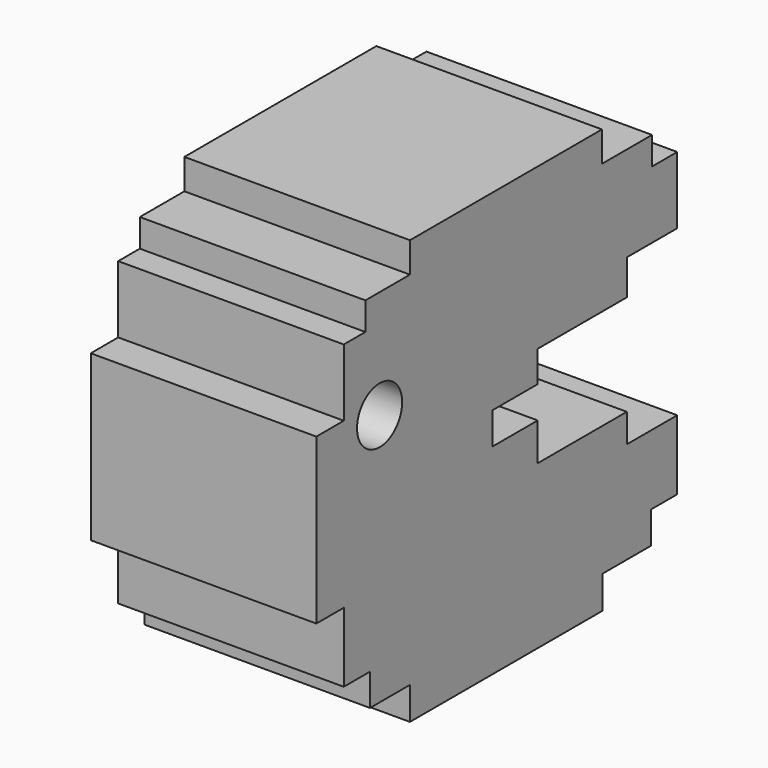
from build123d import *

# Parameters (mm, degrees)
F0_W     = 25.4
F0_H     = 25.399998
F1_DEPTH = 12.7
F3_DEPTH = 25.4
F4_R     = 1.5875
F5_DEPTH = 12.7


with BuildPart() as f1:
    # F0 (on Right) → F1 (new body)
    with BuildSketch(Plane.YZ):
        with Locations((12.7, 12.699999)):
            Rectangle(F0_W, F0_H)
    extrude(amount=F1_DEPTH)

    # F2 (on face) → F3 (cut)
    with BuildSketch(Plane.YZ.offset(12.7)):
        Polygon((0, 25.399998), (0, 16.820697), (1.931377, 16.820697), (1.931377, 20.601515), (3.452925, 20.601515), (3.452925, 22.169169), (6.588236, 22.169169), (6.588236, 23.875147), (20.09774, 23.875147), (20.09774, 22.169169), (23.624913, 22.169169), (23.624913, 20.601515), (25.4, 20.601515), (25.4, 25.399998), align=None)
        Polygon((0, 0), (6.588236, 0), (6.588236, 1.835753), (3.775678, 1.835753), (3.775678, 3.633947), (1.931377, 3.633947), (1.931377, 7.553086), (0, 7.553086), align=None)
        Polygon((20.143846, 1.835753), (20.143846, 0), (25.4, 0), (25.4, 3.633947), (23.555804, 3.633947), (23.555804, 1.835753), align=None)
        Polygon((21.849825, 7.553086), (25.4, 7.553086), (25.4, 16.820697), (21.849825, 16.820697), (21.849825, 14.838074), (15.579202, 14.838074), (15.579202, 13.085988), (12.397784, 13.085988), (12.397784, 11.287794), (15.579202, 11.287794), (15.579202, 9.166849), (21.849825, 9.166849), align=None)
    extrude(amount=-F3_DEPTH, mode=Mode.SUBTRACT)

    # F4 (on face) → F5 (cut)
    with BuildSketch(Plane.YZ.offset(12.7)):
        with Locations((4.452611, 16.06866)):
            Circle(F4_R)
    extrude(amount=-F5_DEPTH, mode=Mode.SUBTRACT)


solid = f1.part
